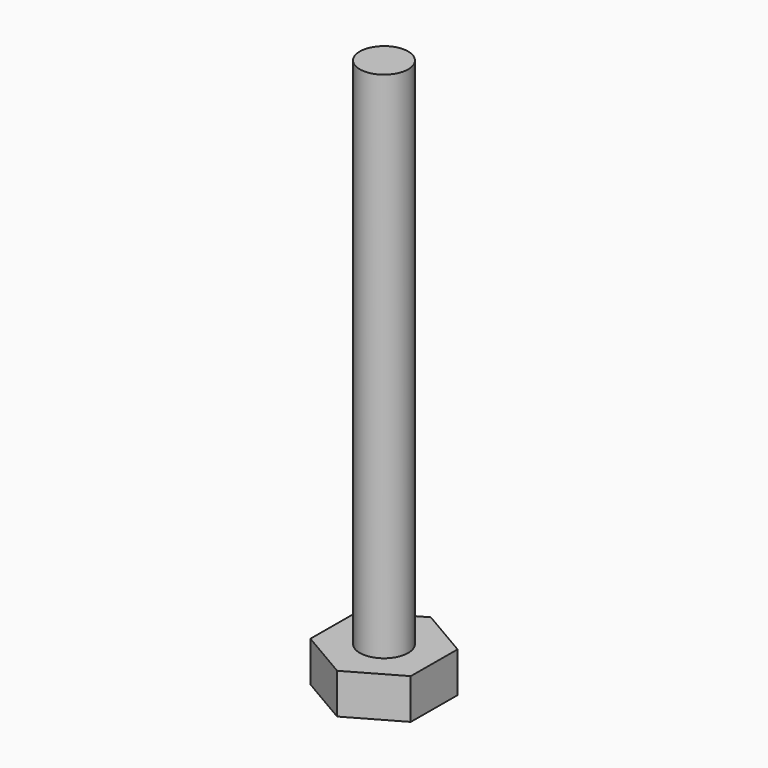
from build123d import *

# Parameters (mm, degrees)
F1_DEPTH = 4
F2_R     = 2.4
F3_DEPTH = 55
F4_R     = 1.5
F5_DEPTH = 40


with BuildPart() as f1:
    # F0 (on Top) → F1 (new body)
    with BuildSketch(Plane.XY):
        Polygon((-0.031572, -5.773503), (4.984214, -2.914093), (5.015786, 2.859409), (0.031572, 5.773503), (-4.984214, 2.914093), (-5.015786, -2.859409), align=None)
    extrude(amount=F1_DEPTH)

    # F2 (on face) → F3 (join)
    with BuildSketch(Plane.XY):
        Circle(F2_R)
    extrude(amount=F3_DEPTH)

    # F4 (on Top) → F5 (cut)
    with BuildSketch(Plane.XY):
        Circle(F4_R)
    extrude(amount=F5_DEPTH, mode=Mode.SUBTRACT)


solid = f1.part
